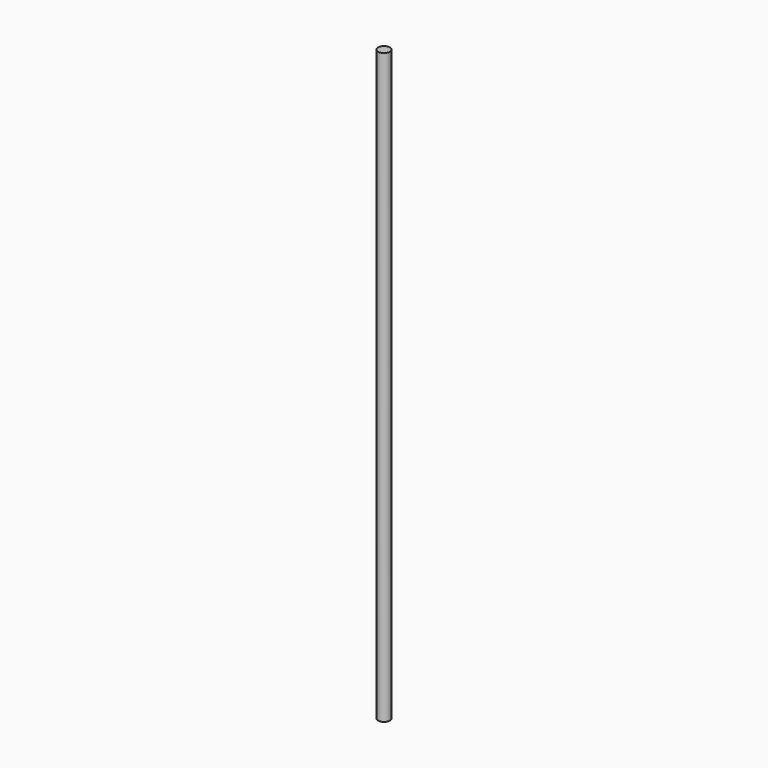
from build123d import *

# Parameters (mm, degrees)
CYLINDER_R     = 4
CYLINDER_DEPTH = 400


with BuildPart() as part:
    # Cylinder → Cylinder (new body)
    with BuildSketch(Plane.XY):
        Circle(CYLINDER_R)
    extrude(amount=CYLINDER_DEPTH)


solid = part.part
